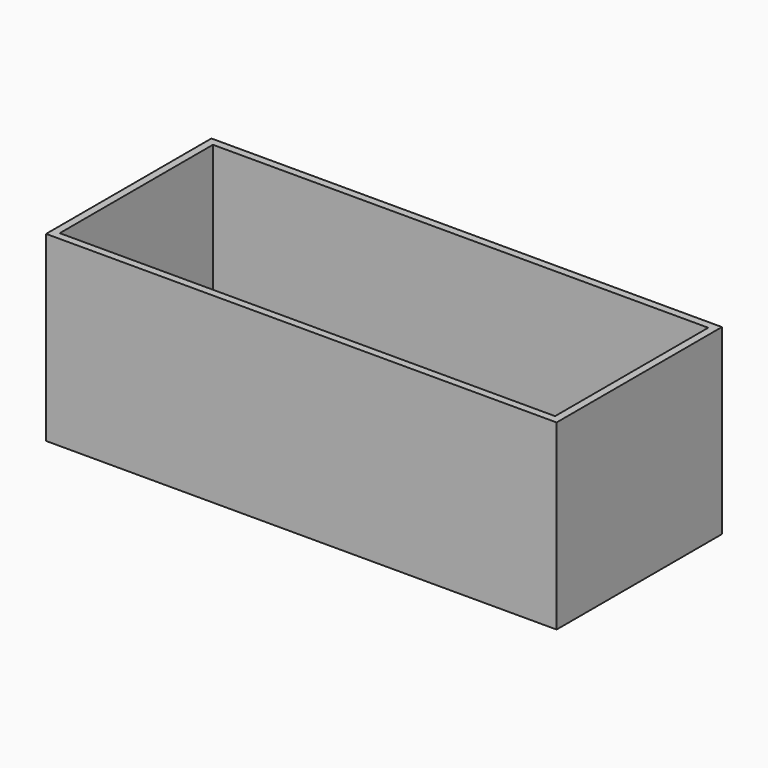
from build123d import *

# Parameters (mm, degrees)
F0_W     = 168
F0_H     = 68
F0_W_2   = 163
F0_H_2   = 63
F1_DEPTH = 60
F2_DEPTH = 2
F3_W     = 4.826
F3_H     = 24.355216
F4_DEPTH = 3


with BuildPart() as f1:
    # F0 (on Top) → F1 (new body)
    with BuildSketch(Plane.XY):
        Rectangle(F0_W, F0_H)
        Rectangle(F0_W_2, F0_H_2, mode=Mode.SUBTRACT)
    extrude(amount=F1_DEPTH)

    # F0 (on Top) → F2 (join)
    with BuildSketch(Plane.XY):
        Rectangle(F0_W_2, F0_H_2)
    extrude(amount=F2_DEPTH)

    # F3 (on face) → F4 (join)
    with BuildSketch(Plane.XY):
        with BuildLine():
            Line((-60.442161, 24.30206), (-72.00386, 24.30206))
            Line((-72.00386, 24.30206), (-72.208633, 18.363613))
            ThreePointArc((-72.208633, 18.363613), (-71.269145, 14.427374), (-68.446746, 11.527256))
            Line((-68.446746, 11.527256), (-67.12627, 10.753183))
            Line((-67.12627, 10.753183), (-67.12627, 18.882509))
            Line((-67.12627, 18.882509), (-60.442161, 18.882509))
            Line((-60.442161, 18.882509), (-60.442161, 24.30206))
        make_face()
        with BuildLine():
            Line((-47.606919, 24.634736), (-53.000022, 24.634736))
            Line((-53.000022, 24.634736), (-52.930937, -11.566137))
            ThreePointArc((-52.930937, -11.566137), (-51.338734, -16.213165), (-47.241549, -18.922972))
            Line((-47.241549, -18.922972), (-14.994091, -27.368734))
            Line((-14.994091, -27.368734), (-14.994091, -21.587882))
            Line((-14.994091, -21.587882), (-45.218573, -13.409639))
            Line((-45.218573, -13.409639), (-16.646753, 24.478305))
            Line((-16.646753, 24.478305), (-22.944923, 24.478305))
            Line((-22.944923, 24.478305), (-47.740912, -9.533542))
            Line((-47.740912, -9.533542), (-47.606919, 24.634736))
        make_face()
        with BuildLine():
            Line((-5.600203, 16.858305), (-5.600203, -26.761888))
            Line((-5.600203, -26.761888), (-1.264561, -26.761888))
            Line((-1.264561, -26.761888), (-1.264561, 12.522665))
            ThreePointArc((-1.264561, 12.522665), (0.967285, 17.910819), (6.355439, 20.142665))
            Line((6.355439, 20.142665), (28.542969, 20.142665))
            Line((28.542969, 20.142665), (28.542969, 24.478305))
            Line((28.542969, 24.478305), (2.019797, 24.478305))
            ThreePointArc((2.019797, 24.478305), (-3.368357, 22.246459), (-5.600203, 16.858305))
        make_face()
        with BuildLine():
            ThreePointArc((44.653603, 24.478305), (39.265449, 22.246459), (37.033603, 16.858305))
            Line((37.033603, 16.858305), (37.033603, -26.761888))
            Line((37.033603, -26.761888), (42.272501, -26.761888))
            Line((42.272501, -26.761888), (42.272501, 11.980708))
            ThreePointArc((42.272501, 11.980708), (44.504347, 17.368862), (49.892501, 19.600708))
            Line((49.892501, 19.600708), (75.693063, 19.600708))
            Line((75.693063, 19.600708), (75.693063, 24.478305))
            Line((75.693063, 24.478305), (44.653603, 24.478305))
        make_face()
        with Locations((73.283109, -14.58428)):
            Rectangle(F3_W, F3_H)
    extrude(amount=-F4_DEPTH)


solid = f1.part
